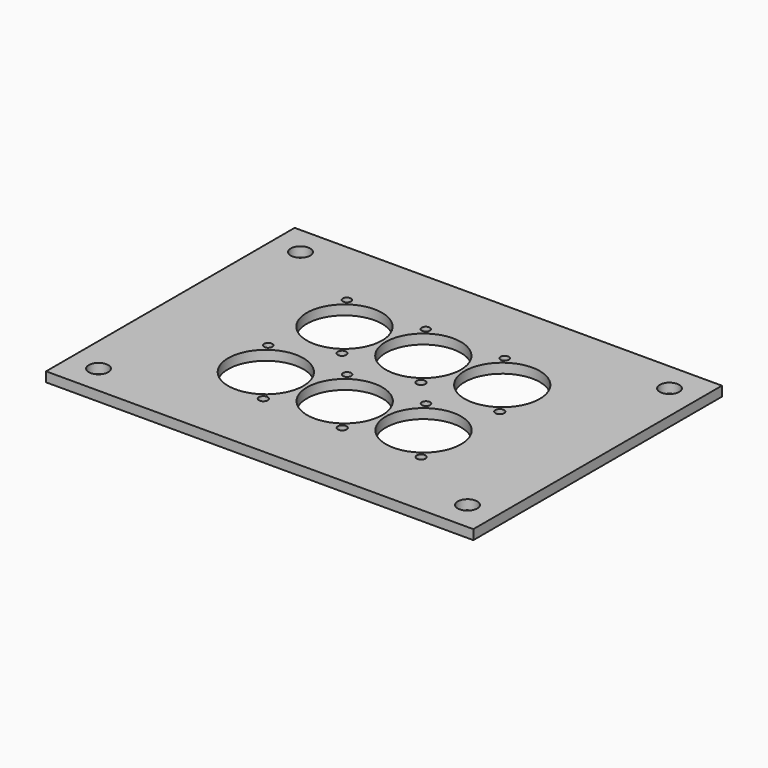
from build123d import *

# Parameters (mm, degrees)
F0_W     = 139.7
F0_H     = 101.6
F0_R     = 3.175
F0_W_2   = 25.4
F0_H_2   = 31.75
F0_R_2   = 1.435069993
F0_R_3   = 12.303125
F0_R_4   = 1.3480283012
F1_DEPTH = 3.175


with BuildPart() as f1:
    # F0 (on Top) → F1 (new body)
    with BuildSketch(Plane.XY):
        with Locations((69.85, 50.8)):
            Rectangle(F0_W, F0_H)
        with Locations((9.525, 9.525)):
            Circle(F0_R, mode=Mode.SUBTRACT)
        with Locations((44.053125, 34.7265625)):
            Rectangle(F0_W_2, F0_H_2, mode=Mode.SUBTRACT)
        with Locations((130.175, 9.525)):
            Circle(F0_R, mode=Mode.SUBTRACT)
        with Locations((69.85, 34.7265625)):
            Rectangle(F0_W_2, F0_H_2, mode=Mode.SUBTRACT)
        with Locations((95.646875, 34.7265625)):
            Rectangle(F0_W_2, F0_H_2, mode=Mode.SUBTRACT)
        with Locations((44.053125, 66.8734375)):
            Rectangle(F0_W_2, F0_H_2, mode=Mode.SUBTRACT)
        with Locations((9.525, 92.075)):
            Circle(F0_R, mode=Mode.SUBTRACT)
        with Locations((69.85, 66.8734375)):
            Rectangle(F0_W_2, F0_H_2, mode=Mode.SUBTRACT)
        with Locations((95.646875, 66.8734375)):
            Rectangle(F0_W_2, F0_H_2, mode=Mode.SUBTRACT)
        with Locations((130.175, 92.075)):
            Circle(F0_R, mode=Mode.SUBTRACT)
        with Locations((44.053125, 66.8734375)):
            Rectangle(F0_W_2, F0_H_2)
        with Locations((52.784375, 54.9671875)):
            Circle(F0_R_2, mode=Mode.SUBTRACT)
        with Locations((44.053125, 66.8734375)):
            Circle(F0_R_3, mode=Mode.SUBTRACT)
        with Locations((35.321875, 78.7796875)):
            Circle(F0_R_4, mode=Mode.SUBTRACT)
        with Locations((69.85, 66.8734375)):
            Rectangle(F0_W_2, F0_H_2)
        with Locations((61.11875, 78.7796875)):
            Circle(F0_R_4, mode=Mode.SUBTRACT)
        with Locations((78.58125, 54.9671875)):
            Circle(F0_R_2, mode=Mode.SUBTRACT)
        with Locations((69.85, 66.8734375)):
            Circle(F0_R_3, mode=Mode.SUBTRACT)
        with Locations((95.646875, 66.8734375)):
            Rectangle(F0_W_2, F0_H_2)
        with Locations((104.378125, 54.9671875)):
            Circle(F0_R_2, mode=Mode.SUBTRACT)
        with Locations((95.646875, 66.8734375)):
            Circle(F0_R_3, mode=Mode.SUBTRACT)
        with Locations((86.915625, 78.7796875)):
            Circle(F0_R_4, mode=Mode.SUBTRACT)
        Polygon((108.346875, 18.8515625), (108.346875, 50.6015625), (82.946875, 50.6015625), (82.946875, 18.8515625), align=None)
        with Locations((104.378125, 22.8203125)):
            Circle(F0_R_2, mode=Mode.SUBTRACT)
        with Locations((95.646875, 34.7265625)):
            Circle(F0_R_3, mode=Mode.SUBTRACT)
        with Locations((86.915625, 46.6328125)):
            Circle(F0_R_4, mode=Mode.SUBTRACT)
        Polygon((82.55, 18.8515625), (82.55, 50.6015625), (57.15, 50.6015625), (57.15, 18.8515625), align=None)
        with Locations((61.11875, 46.6328125)):
            Circle(F0_R_4, mode=Mode.SUBTRACT)
        with Locations((78.58125, 22.8203125)):
            Circle(F0_R_2, mode=Mode.SUBTRACT)
        with Locations((69.85, 34.7265625)):
            Circle(F0_R_3, mode=Mode.SUBTRACT)
        Polygon((56.753125, 18.8515625), (56.753125, 50.6015625), (31.353125, 50.6015625), (31.353125, 18.8515625), align=None)
        with Locations((52.784375, 22.8203125)):
            Circle(F0_R_2, mode=Mode.SUBTRACT)
        with Locations((44.053125, 34.7265625)):
            Circle(F0_R_3, mode=Mode.SUBTRACT)
        with Locations((35.321875, 46.6328125)):
            Circle(F0_R_4, mode=Mode.SUBTRACT)
    extrude(amount=F1_DEPTH)


solid = f1.part
